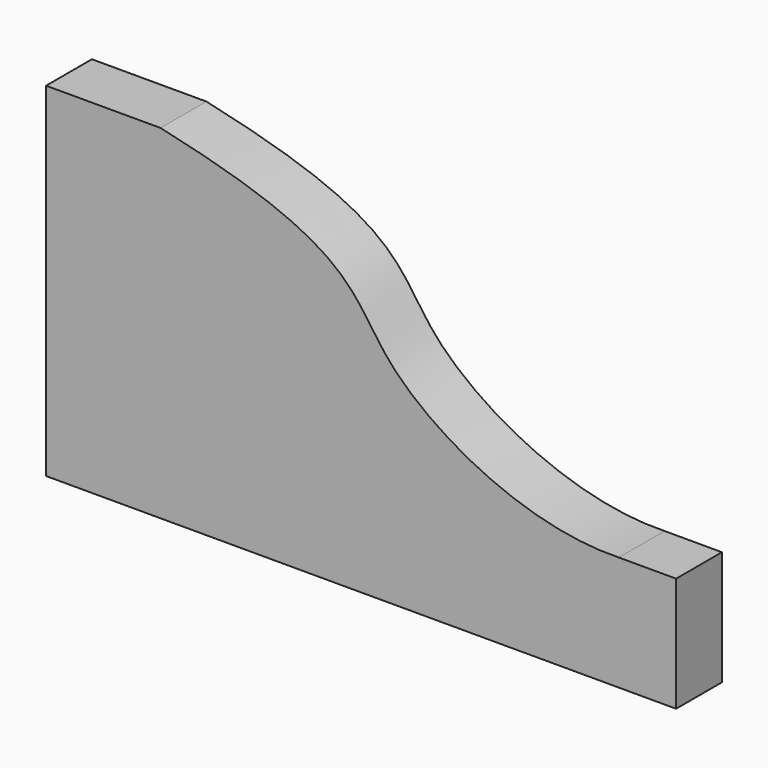
from build123d import *

# Parameters (mm, degrees)
F1_DEPTH = 6.35


with BuildPart() as f1:
    # F0 (on Front) → F1 (new body)
    with BuildSketch(Plane.XZ):
        with BuildLine():
            Line((-22.225, 19.05), (-34.925, 19.05))
            Line((-34.925, 19.05), (-34.925, -19.05))
            Line((-34.925, -19.05), (34.925, -19.05))
            Line((34.925, -19.05), (34.925, -6.35))
            Line((34.925, -6.35), (28.575, -6.35))
            add(Edge.make_bspline(
                [(-22.225, 19.05), (0, 14.1649795696), (-2.6542157117, 5.0819810995), (18.2595439255, -6.6398344934), (28.575, -6.35)],
                knots=[0, 0, 0, 0, 0.5104188422, 1, 1, 1, 1], degree=3))
        make_face()
    extrude(amount=F1_DEPTH)


solid = f1.part
